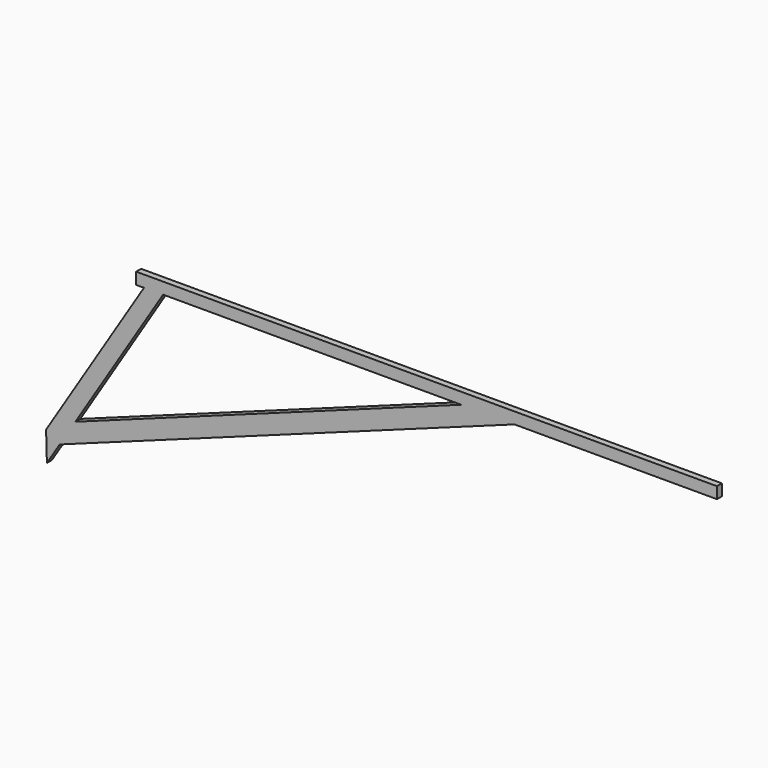
from build123d import *

# Parameters (mm, degrees)
F1_DEPTH = 12.7


with BuildPart() as f1:
    # F0 (on Front) → F1 (new body, symmetric)
    with BuildSketch(Plane.XZ):
        Polygon((-598.979303, -141.286989), (-598.979303, -94.24994), (-1076.970816, -94.24994), (-1076.970816, -142.254412), (-1044.996943, -142.254412), (-966.876544, -142.254412), (-966.272031, -141.286989), align=None)
        Polygon((1306.020697, -94.24994), (-598.979303, -94.24994), (-598.979303, -141.286989), (256.845117, -141.286989), (475.207098, -141.286989), (1306.020697, -141.286989), align=None)
        Polygon((475.207098, -141.286989), (256.845117, -141.286989), (-1326.34247, -717.520147), (-1390.625515, -820.394523), align=None)
        Polygon((-1390.625515, -820.394523), (-1326.34247, -717.520147), (-966.876544, -142.254412), (-1044.996943, -142.254412), (-1446.578518, -784.919273), (-1443.203137, -904.536307), align=None)
    extrude(amount=F1_DEPTH, both=True)


solid = f1.part
